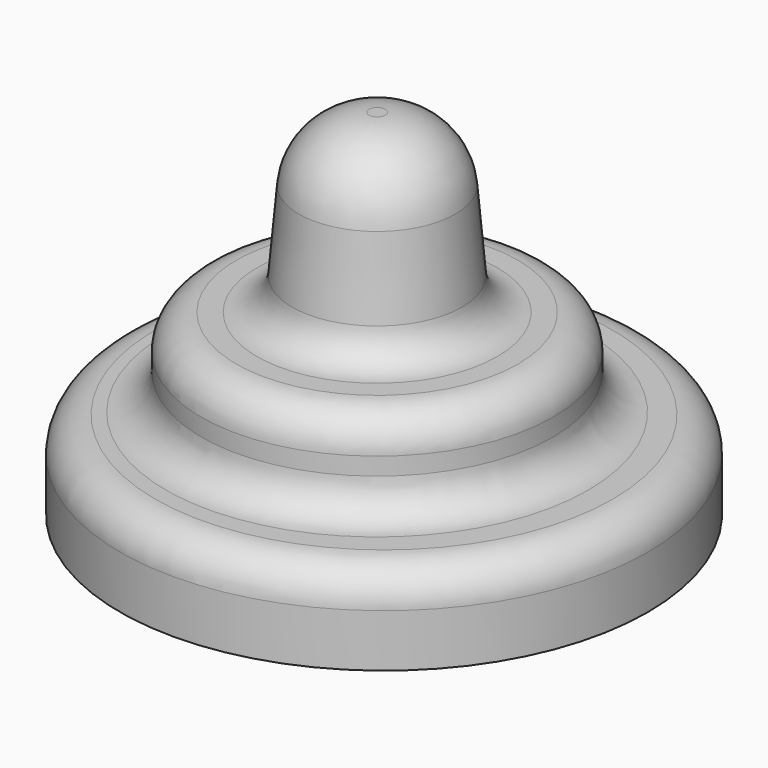
from build123d import *

# Parameters (mm, degrees)
F0_R     = 38.1
F1_DEPTH = 12.7
F2_R     = 3.175
F3_DEPTH = 6.35
F4_R     = 25.4
F5_DEPTH = 12.7
F6_R     = 12.7
F7_DEPTH = 25.4
F7_TAPER = 5
F8_R     = 5.08
F9_R     = 10.16


with BuildPart() as f1:
    # F0 (on Top) → F1 (new body)
    with BuildSketch(Plane.XY):
        with Locations((0.9899509557, 0)):
            Circle(F0_R)
    extrude(amount=F1_DEPTH)

    # F2 (on face) → F3 (cut)
    with BuildSketch(Plane(origin=(0, 0, 0), x_dir=(1, 0, 0), z_dir=(0, 0, -1))):
        with Locations((-19.05, -19.05)):
            Circle(F2_R)
        with Locations((19.05, -19.05)):
            Circle(F2_R)
        with Locations((19.05, 19.05)):
            Circle(F2_R)
        with Locations((-19.05, 19.05)):
            Circle(F2_R)
    extrude(amount=-F3_DEPTH, mode=Mode.SUBTRACT)

    # F4 (on face) → F5 (join)
    with BuildSketch(Plane.XY.offset(12.7)):
        Circle(F4_R)
    extrude(amount=F5_DEPTH)

    # F6 (on face) → F7 (join)
    with BuildSketch(Plane.XY.offset(25.4)):
        Circle(F6_R)
    extrude(amount=F7_DEPTH, taper=F7_TAPER)

    # F8
    f8_edges = [f1.edges().sort_by_distance(p)[0] for p in [
        (-37.110049, 0, 12.7),
        (-25.4, 0, 12.7),
        (-25.4, 0, 25.4),
        (-12.7, 0, 25.4),
    ]]
    fillet(f8_edges, radius=F8_R)

    # F9
    f9_edges = [f1.edges().sort_by_distance(p)[0] for p in [
        (-10.477788, 0, 50.8),
    ]]
    fillet(f9_edges, radius=F9_R)


solid = f1.part
